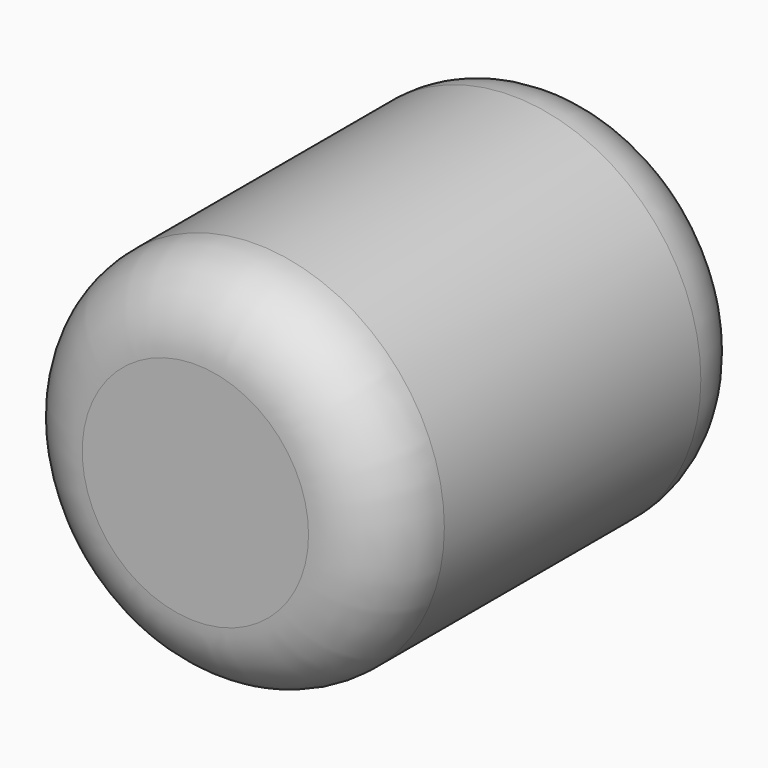
from build123d import *

# Parameters (mm, degrees)
F0_R     = 5
F1_DEPTH = 12.5
F2_R     = 2


with BuildPart() as f1:
    # F0 (on Front) → F1 (new body)
    with BuildSketch(Plane.XZ):
        Circle(F0_R)
    extrude(amount=F1_DEPTH)

    # F2
    f2_edges = [f1.edges().sort_by_distance(p)[0] for p in [
        (-5, -12.5, 0),
        (5, -6.25, 0),
        (-5, 0, 0),
    ]]
    fillet(f2_edges, radius=F2_R)


solid = f1.part
